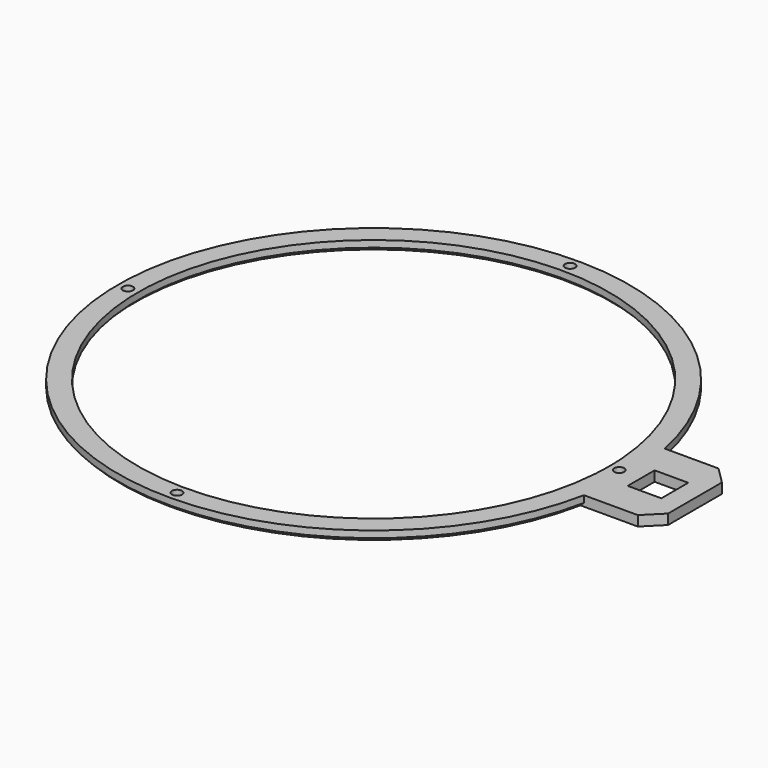
from build123d import *

# Parameters (mm, degrees)
F0_R     = 1.5
F0_W     = 10
F0_H     = 10
F1_DEPTH = 3
F2_SIZE  = 1
F3_SIZE  = 5


with BuildPart() as f1:
    # F0 (on Top) → F1 (new body)
    with BuildSketch(Plane.XY):
        with BuildLine():
            Line((95.505033, 15), (74.505033, 15))
            ThreePointArc((74.505033, 15), (-76, 0), (74.505033, -15))
            Line((74.505033, -15), (95.505033, -15))
            Line((95.505033, -15), (95.505033, 0))
            Line((95.505033, 0), (95.505033, 15))
        make_face()
        with Locations((0, -73)):
            Circle(F0_R, mode=Mode.SUBTRACT)
        with Locations((-73, 0)):
            Circle(F0_R, mode=Mode.SUBTRACT)
        with BuildLine():
            ThreePointArc((69.8212, 5), (69.955286, 2.501598), (70, 0))
            ThreePointArc((70, 0), (69.955286, -2.501598), (69.8212, -5))
            ThreePointArc((69.8212, -5), (-70, 0), (69.8212, 5))
        make_face(mode=Mode.SUBTRACT)
        with Locations((0, 73)):
            Circle(F0_R, mode=Mode.SUBTRACT)
        with Locations((73, 0)):
            Circle(F0_R, mode=Mode.SUBTRACT)
        with Locations((84.505033, 0)):
            Rectangle(F0_W, F0_H, mode=Mode.SUBTRACT)
    extrude(amount=F1_DEPTH)

    # F2
    f2_edges = [f1.edges().sort_by_distance(p)[0] for p in [
        (-76, 0, 0),
        (-69.8212, -5, 0),
    ]]
    chamfer(f2_edges, length=F2_SIZE)

    # F3
    f3_edges = [f1.edges().sort_by_distance(p)[0] for p in [
        (95.505033, -15, 1.5),
        (95.505033, 15, 1.5),
    ]]
    chamfer(f3_edges, length=F3_SIZE)


solid = f1.part
